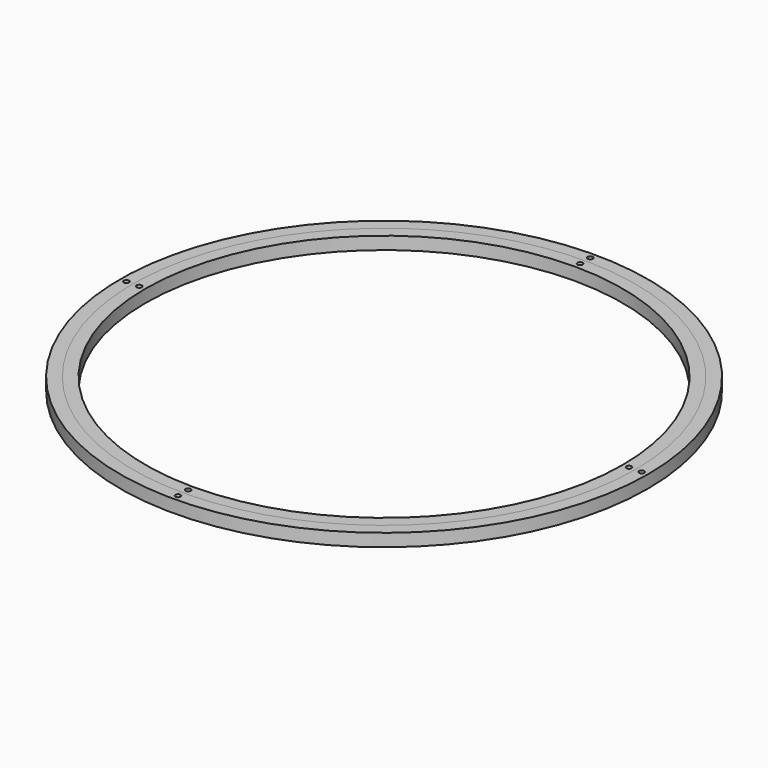
from build123d import *

# Parameters (mm, degrees)
F0_R     = 250
F0_R_2   = 238
F1_DEPTH = 12
F2_R     = 238
F2_R_2   = 226
F3_DEPTH = 12
F4_R     = 2.5
F5_DEPTH = 12
F6_R     = 2.5
F7_DEPTH = 12


with BuildPart() as f1:
    # F0 (on Top) → F1 (new body)
    with BuildSketch(Plane.XY):
        Circle(F0_R)
        Circle(F0_R_2, mode=Mode.SUBTRACT)
    extrude(amount=F1_DEPTH)

    # F6 (on face) → F7 (cut)
    with BuildSketch(Plane.XY.offset(12)):
        with BuildLine():
            ThreePointArc((0, 241.5), (1.767767, 242.232233), (2.5, 244))
            ThreePointArc((2.5, 244), (-1.767767, 245.767767), (0, 241.5))
        make_face()
        with Locations((-244, 0)):
            Circle(F6_R)
        with Locations((0, -244)):
            Circle(F6_R)
        with Locations((244, 0)):
            Circle(F6_R)
    extrude(amount=-F7_DEPTH, mode=Mode.SUBTRACT)


with BuildPart() as f3:
    # F2 (on Top) → F3 (new body)
    with BuildSketch(Plane.XY):
        Circle(F2_R)
        Circle(F2_R_2, mode=Mode.SUBTRACT)
    extrude(amount=F3_DEPTH)

    # F4 (on face) → F5 (cut)
    with BuildSketch(Plane.XY.offset(12)):
        with BuildLine():
            ThreePointArc((0, 229.5), (1.767767, 230.232233), (2.5, 232))
            ThreePointArc((2.5, 232), (-1.767767, 233.767767), (0, 229.5))
        make_face()
        with Locations((-232, 0)):
            Circle(F4_R)
        with Locations((0, -232)):
            Circle(F4_R)
        with Locations((232, 0)):
            Circle(F4_R)
    extrude(amount=-F5_DEPTH, mode=Mode.SUBTRACT)


solid = Compound([f1.part, f3.part])
